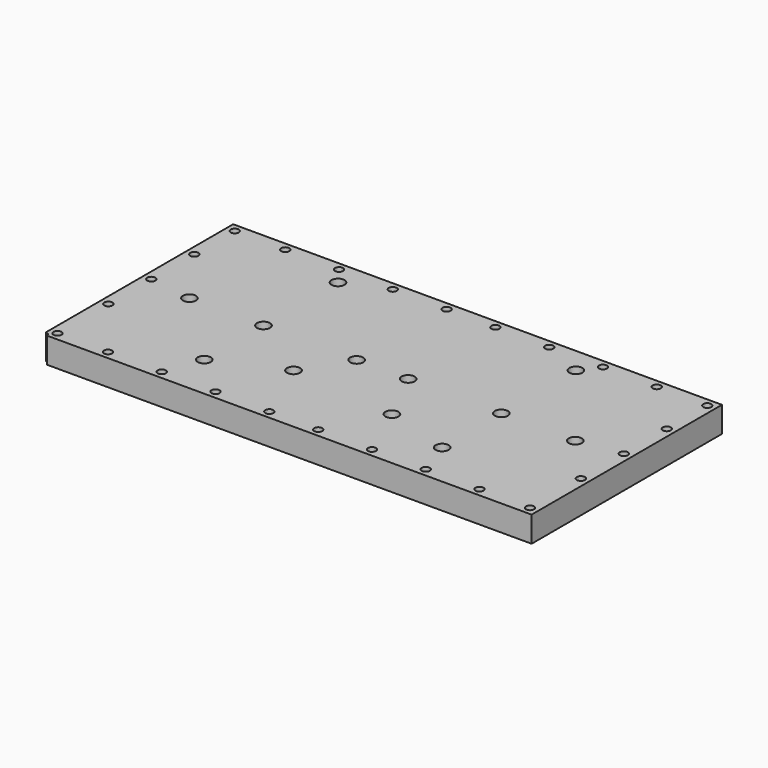
from build123d import *

# Parameters (mm, degrees)
F0_W      = 150
F0_H      = 73
F1_DEPTH  = 7.873
F2_W      = 136
F2_H      = 63
F3_DEPTH  = 4.873
F4_R      = 1.25
F5_DEPTH  = 7.873
F6_R      = 1.25
F7_DEPTH  = 7.873
F8_R      = 1.25
F9_DEPTH  = 7.873
F10_R     = 1.25
F11_DEPTH = 7.873
F12_R     = 1.25
F13_DEPTH = 7.873
F14_R     = 1.25
F15_DEPTH = 7.873
F16_R     = 1.25
F17_DEPTH = 7.873
F18_R     = 1.25
F19_DEPTH = 7.873
F20_R     = 1.25
F21_DEPTH = 7.873
F22_R     = 1.25
F23_DEPTH = 7.873
F24_R     = 1.25
F25_DEPTH = 7.873
F26_R     = 1.25
F27_DEPTH = 7.873
F28_R     = 1.25
F29_DEPTH = 7.873
F30_R     = 1.25
F31_DEPTH = 7.873
F32_R     = 1.25
F33_DEPTH = 7.873
F34_R     = 1.25
F35_DEPTH = 7.873
F36_R     = 1.25
F37_DEPTH = 7.873
F38_R     = 1.25
F39_DEPTH = 7.873
F40_R     = 1.25
F41_DEPTH = 7.873
F42_R     = 1.25
F43_DEPTH = 7.873
F44_R     = 1.25
F45_DEPTH = 7.873
F46_R     = 1.25
F47_DEPTH = 7.873
F48_R     = 1.25
F49_DEPTH = 7.873
F50_R     = 1.25
F51_DEPTH = 7.873
F52_R     = 1.25
F53_DEPTH = 7.873
F54_R     = 1.25
F55_DEPTH = 7.873
F56_R     = 2
F57_DEPTH = 3
F58_R     = 2
F59_DEPTH = 3
F60_R     = 2
F61_DEPTH = 3
F62_R     = 2
F63_DEPTH = 3
F64_R     = 2
F65_DEPTH = 3
F66_R     = 2
F67_DEPTH = 3
F68_R     = 2
F69_DEPTH = 3
F70_R     = 2
F71_DEPTH = 3
F72_W     = 2.5
F72_H     = 4.873
F73_DEPTH = 63
F74_W     = 2.5
F74_H     = 6.5
F75_DEPTH = 0.623
F76_R     = 2
F77_DEPTH = 3
F79_R     = 2
F80_DEPTH = 3
F81_R     = 2
F82_DEPTH = 3
F78_R     = 2
F83_DEPTH = 3


with BuildPart() as f1:
    # F0 (on Top) → F1 (new body)
    with BuildSketch(Plane.XY):
        with Locations((75, 36.5)):
            Rectangle(F0_W, F0_H)
    extrude(amount=F1_DEPTH)

    # F2 (on Top) → F3 (cut)
    with BuildSketch(Plane.XY):
        with Locations((75, 36.5)):
            Rectangle(F2_W, F2_H)
    extrude(amount=F3_DEPTH, mode=Mode.SUBTRACT)

    # F4 (on face) → F5 (cut)
    with BuildSketch(Plane.XY.offset(7.873)):
        with Locations((2.5, 2.5)):
            Circle(F4_R)
    extrude(amount=-F5_DEPTH, mode=Mode.SUBTRACT)

    # F6 (on face) → F7 (cut)
    with BuildSketch(Plane.XY.offset(7.873)):
        with Locations((18, 2.5)):
            Circle(F6_R)
    extrude(amount=-F7_DEPTH, mode=Mode.SUBTRACT)

    # F8 (on face) → F9 (cut)
    with BuildSketch(Plane.XY.offset(7.873)):
        with Locations((34.5, 2.5)):
            Circle(F8_R)
    extrude(amount=-F9_DEPTH, mode=Mode.SUBTRACT)

    # F10 (on face) → F11 (cut)
    with BuildSketch(Plane.XY.offset(7.873)):
        with Locations((51, 2.5)):
            Circle(F10_R)
    extrude(amount=-F11_DEPTH, mode=Mode.SUBTRACT)

    # F12 (on face) → F13 (cut)
    with BuildSketch(Plane.XY.offset(7.873)):
        with Locations((67.5, 2.5)):
            Circle(F12_R)
    extrude(amount=-F13_DEPTH, mode=Mode.SUBTRACT)

    # F14 (on face) → F15 (cut)
    with BuildSketch(Plane.XY.offset(7.873)):
        with Locations((82.5, 2.5)):
            Circle(F14_R)
    extrude(amount=-F15_DEPTH, mode=Mode.SUBTRACT)

    # F16 (on face) → F17 (cut)
    with BuildSketch(Plane.XY.offset(7.873)):
        with Locations((99, 2.5)):
            Circle(F16_R)
    extrude(amount=-F17_DEPTH, mode=Mode.SUBTRACT)

    # F18 (on face) → F19 (cut)
    with BuildSketch(Plane.XY.offset(7.873)):
        with Locations((115.5, 2.5)):
            Circle(F18_R)
    extrude(amount=-F19_DEPTH, mode=Mode.SUBTRACT)

    # F20 (on face) → F21 (cut)
    with BuildSketch(Plane.XY.offset(7.873)):
        with Locations((132, 2.5)):
            Circle(F20_R)
    extrude(amount=-F21_DEPTH, mode=Mode.SUBTRACT)

    # F22 (on face) → F23 (cut)
    with BuildSketch(Plane.XY.offset(7.873)):
        with Locations((147.5, 2.5)):
            Circle(F22_R)
    extrude(amount=-F23_DEPTH, mode=Mode.SUBTRACT)

    # F24 (on face) → F25 (cut)
    with BuildSketch(Plane.XY.offset(7.873)):
        with Locations((2.5, 22)):
            Circle(F24_R)
    extrude(amount=-F25_DEPTH, mode=Mode.SUBTRACT)

    # F26 (on face) → F27 (cut)
    with BuildSketch(Plane.XY.offset(7.873)):
        with Locations((147.5, 22)):
            Circle(F26_R)
    extrude(amount=-F27_DEPTH, mode=Mode.SUBTRACT)

    # F28 (on face) → F29 (cut)
    with BuildSketch(Plane.XY.offset(7.873)):
        with Locations((147.5, 38.5)):
            Circle(F28_R)
    extrude(amount=-F29_DEPTH, mode=Mode.SUBTRACT)

    # F30 (on face) → F31 (cut)
    with BuildSketch(Plane.XY.offset(7.873)):
        with Locations((2.5, 38.5)):
            Circle(F30_R)
    extrude(amount=-F31_DEPTH, mode=Mode.SUBTRACT)

    # F32 (on face) → F33 (cut)
    with BuildSketch(Plane.XY.offset(7.873)):
        with Locations((2.5, 55)):
            Circle(F32_R)
    extrude(amount=-F33_DEPTH, mode=Mode.SUBTRACT)

    # F34 (on face) → F35 (cut)
    with BuildSketch(Plane.XY.offset(7.873)):
        with Locations((147.5, 55)):
            Circle(F34_R)
    extrude(amount=-F35_DEPTH, mode=Mode.SUBTRACT)

    # F36 (on face) → F37 (cut)
    with BuildSketch(Plane.XY.offset(7.873)):
        with Locations((2.5, 70.5)):
            Circle(F36_R)
    extrude(amount=-F37_DEPTH, mode=Mode.SUBTRACT)

    # F38 (on face) → F39 (cut)
    with BuildSketch(Plane.XY.offset(7.873)):
        with Locations((147.5, 70.5)):
            Circle(F38_R)
    extrude(amount=-F39_DEPTH, mode=Mode.SUBTRACT)

    # F40 (on face) → F41 (cut)
    with BuildSketch(Plane.XY.offset(7.873)):
        with Locations((18, 70.5)):
            Circle(F40_R)
    extrude(amount=-F41_DEPTH, mode=Mode.SUBTRACT)

    # F42 (on face) → F43 (cut)
    with BuildSketch(Plane.XY.offset(7.873)):
        with Locations((132, 70.5)):
            Circle(F42_R)
    extrude(amount=-F43_DEPTH, mode=Mode.SUBTRACT)

    # F44 (on face) → F45 (cut)
    with BuildSketch(Plane.XY.offset(7.873)):
        with Locations((34.5, 70.5)):
            Circle(F44_R)
        Circle(F44_R)
    extrude(amount=-F45_DEPTH, mode=Mode.SUBTRACT)

    # F46 (on face) → F47 (cut)
    with BuildSketch(Plane.XY.offset(7.873)):
        with Locations((115.5, 70.5)):
            Circle(F46_R)
    extrude(amount=-F47_DEPTH, mode=Mode.SUBTRACT)

    # F48 (on face) → F49 (cut)
    with BuildSketch(Plane.XY.offset(7.873)):
        with Locations((51, 70.5)):
            Circle(F48_R)
    extrude(amount=-F49_DEPTH, mode=Mode.SUBTRACT)

    # F50 (on face) → F51 (cut)
    with BuildSketch(Plane.XY.offset(7.873)):
        with Locations((67.5, 70.5)):
            Circle(F50_R)
    extrude(amount=-F51_DEPTH, mode=Mode.SUBTRACT)

    # F52 (on face) → F53 (cut)
    with BuildSketch(Plane.XY.offset(7.873)):
        with Locations((82.5, 70.5)):
            Circle(F52_R)
    extrude(amount=-F53_DEPTH, mode=Mode.SUBTRACT)

    # F54 (on face) → F55 (cut)
    with BuildSketch(Plane.XY.offset(7.873)):
        with Locations((99, 70.5)):
            Circle(F54_R)
    extrude(amount=-F55_DEPTH, mode=Mode.SUBTRACT)

    # F56 (on face) → F57 (cut)
    with BuildSketch(Plane.XY.offset(7.873)):
        with Locations((38.5, 65.1)):
            Circle(F56_R)
    extrude(amount=-F57_DEPTH, mode=Mode.SUBTRACT)

    # F58 (on face) → F59 (cut)
    with BuildSketch(Plane.XY.offset(7.873)):
        with Locations((15.8, 36.5)):
            Circle(F58_R)
    extrude(amount=-F59_DEPTH, mode=Mode.SUBTRACT)

    # F60 (on face) → F61 (cut)
    with BuildSketch(Plane.XY.offset(7.873)):
        with Locations((67.1, 36.5)):
            Circle(F60_R)
    extrude(amount=-F61_DEPTH, mode=Mode.SUBTRACT)

    # F62 (on face) → F63 (cut)
    with BuildSketch(Plane.XY.offset(7.873)):
        with Locations((111.5, 65.1)):
            Circle(F62_R)
    extrude(amount=-F63_DEPTH, mode=Mode.SUBTRACT)

    # F64 (on face) → F65 (cut)
    with BuildSketch(Plane.XY.offset(7.873)):
        with Locations((82.9, 36.5)):
            Circle(F64_R)
    extrude(amount=-F65_DEPTH, mode=Mode.SUBTRACT)

    # F66 (on face) → F67 (cut)
    with BuildSketch(Plane.XY.offset(7.873)):
        with Locations((134.2, 36.5)):
            Circle(F66_R)
    extrude(amount=-F67_DEPTH, mode=Mode.SUBTRACT)

    # F68 (on face) → F69 (cut)
    with BuildSketch(Plane.XY.offset(7.873)):
        with Locations((58.7, 22.8)):
            Circle(F68_R)
    extrude(amount=-F69_DEPTH, mode=Mode.SUBTRACT)

    # F70 (on face) → F71 (cut)
    with BuildSketch(Plane.XY.offset(7.873)):
        with Locations((91.3, 19.8)):
            Circle(F70_R)
    extrude(amount=-F71_DEPTH, mode=Mode.SUBTRACT)

    # F72 (on face) → F73 (join)
    with BuildSketch(Plane(origin=(0, 5, 0), x_dir=(-1, 0, 0), z_dir=(0, 1, 0))):
        with Locations((-75, 2.4365)):
            Rectangle(F72_W, F72_H)
    extrude(amount=F73_DEPTH)

    # F74 (on face) → F75 (cut)
    with BuildSketch(Plane(origin=(0, 0, 0), x_dir=(1, 0, 0), z_dir=(0, 0, -1))):
        with Locations((75, -36.5)):
            Rectangle(F74_W, F74_H)
    extrude(amount=-F75_DEPTH, mode=Mode.SUBTRACT)

    # F76 (on face) → F77 (cut)
    with BuildSketch(Plane(origin=(0, 0, 4.873), x_dir=(1, 0, 0), z_dir=(0, 0, -1))):
        with Locations((38.5, -13.8)):
            Circle(F76_R)
    extrude(amount=-F77_DEPTH, mode=Mode.SUBTRACT)

    # F79 (on face) → F80 (cut)
    with BuildSketch(Plane(origin=(0, 0, 4.873), x_dir=(1, 0, 0), z_dir=(0, 0, -1))):
        with Locations((111.5, -36.5)):
            Circle(F79_R)
    extrude(amount=-F80_DEPTH, mode=Mode.SUBTRACT)

    # F81 (on face) → F82 (cut)
    with BuildSketch(Plane(origin=(0, 0, 4.873), x_dir=(1, 0, 0), z_dir=(0, 0, -1))):
        with Locations((111.5, -13.8)):
            Circle(F81_R)
    extrude(amount=-F82_DEPTH, mode=Mode.SUBTRACT)

    # F78 (on face) → F83 (cut)
    with BuildSketch(Plane(origin=(0, 0, 4.873), x_dir=(1, 0, 0), z_dir=(0, 0, -1))):
        with Locations((38.5, -36.5)):
            Circle(F78_R)
    extrude(amount=-F83_DEPTH, mode=Mode.SUBTRACT)


solid = f1.part
